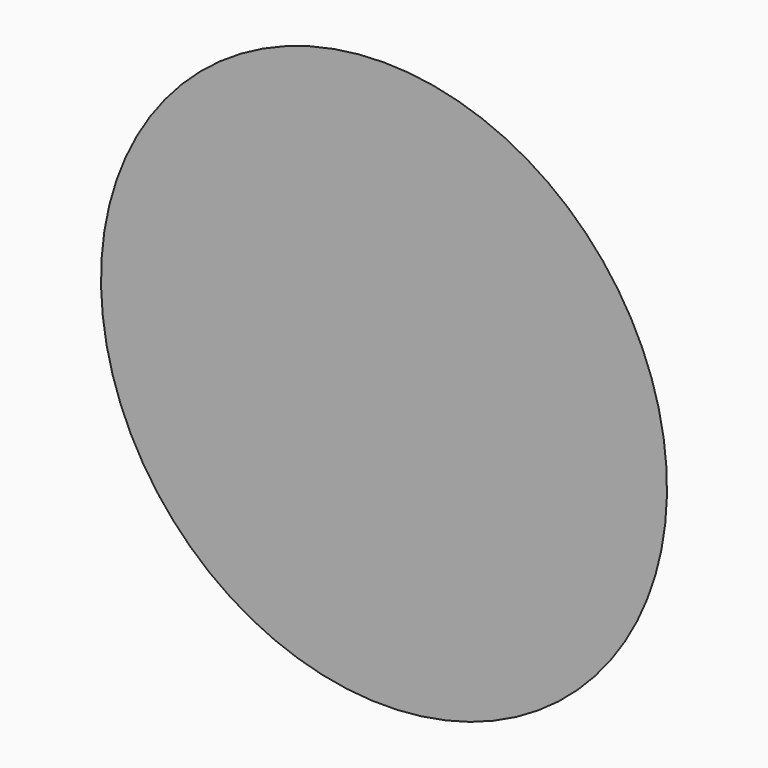
from build123d import *


with BuildPart() as f1:
    # F0 (on Right) → F1 (revolve)
    with BuildSketch(Plane.YZ):
        Polygon((-200, 0), (0, 0), (-200, 428.901384), align=None)
    revolve(axis=Axis((0, -100, 0), (0, 1, 0)))


solid = f1.part
